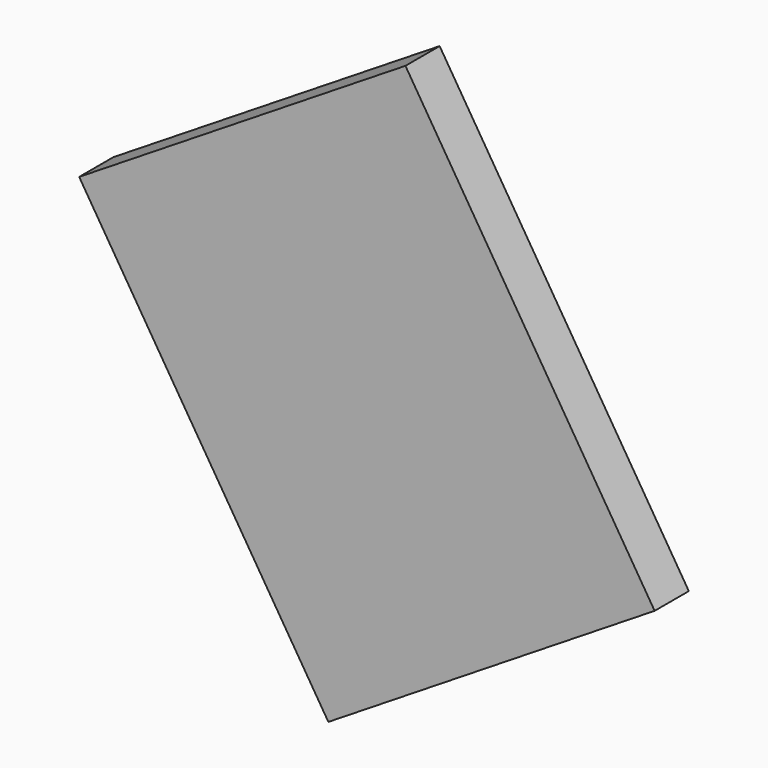
from build123d import *

# Parameters (mm, degrees)
CYLINDER072_R          = 0.5
CYLINDER072_DEPTH      = 0.01
BOX159_W               = 4.5
BOX159_H               = 5.5
BOX159_DEPTH           = 0.5
CUT077_ROLL_ANGLE      = 90
CUT077_PITCH_ANGLE     = 32
CUT077_PLACEMENT_ANGLE = -180


with BuildPart() as cylinder072:
    # Cylinder072 → Cylinder072 (new body)
    with BuildSketch(Plane(origin=(1, 4.5, 0.49), x_dir=(1, 0, 0), z_dir=(0, 0, 1))):
        Circle(CYLINDER072_R)
    extrude(amount=CYLINDER072_DEPTH)


with BuildPart() as obj1:
    # Box159 → Box159 (new body)
    with BuildSketch(Plane.XY):
        with Locations((2.25, 2.75)):
            Rectangle(BOX159_W, BOX159_H)
    extrude(amount=BOX159_DEPTH)

    # Cut077: cut Cylinder072
    add(cylinder072.part, mode=Mode.SUBTRACT)


with BuildPart() as obj1_1:
    # Cut077 roll: moved
    add(obj1.part.rotate(Axis((0, 0, 0), (1, 0, 0)), CUT077_ROLL_ANGLE))


with BuildPart() as obj1_2:
    # Cut077 pitch: moved
    add(obj1_1.part.rotate(Axis((0, 0, 0), (0, 1, 0)), CUT077_PITCH_ANGLE))


with BuildPart() as obj1_3:
    # Cut077 placement: moved
    add(obj1_2.part.moved(Location((12.75121, 2.19, 43.597519))).rotate(Axis((12.75121, 2.19, 43.597519), (0, 0, 1)), CUT077_PLACEMENT_ANGLE))


solid = obj1_3.part
